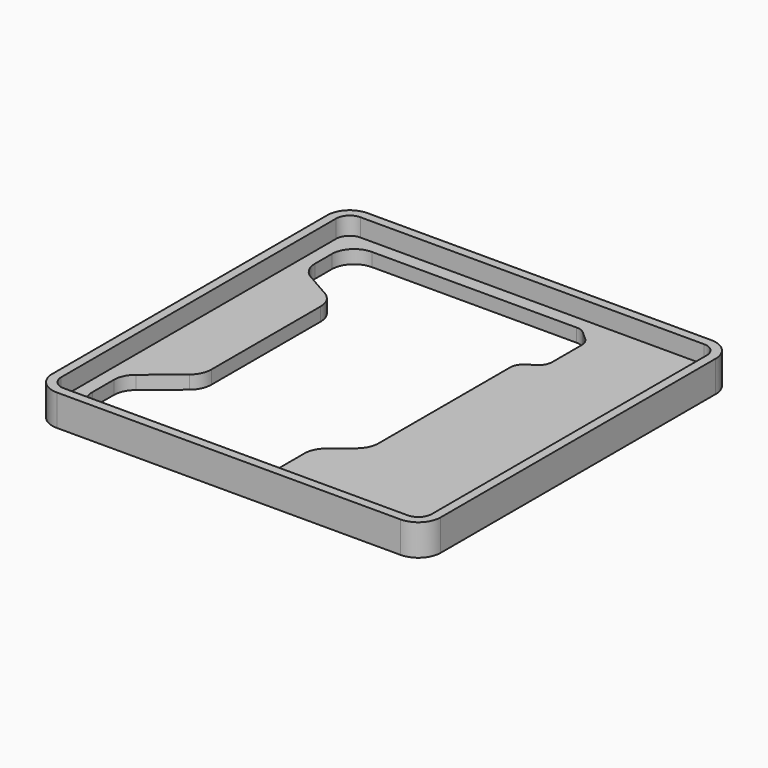
from build123d import *

# Parameters (mm, degrees)
F1_DEPTH = 3
F2_R     = 5
F3_R     = 5
F5_DEPTH = 4


with BuildPart() as f1:
    # F0 (on Top) → F1 (new body)
    with BuildSketch(Plane.XY):
        with BuildLine():
            Line((33.545249, 38.400311), (-43.454751, 38.400311))
            ThreePointArc((-43.454751, 38.400311), (-46.990285, 36.935845), (-48.454751, 33.400311))
            Line((-48.454751, 33.400311), (-48.454751, -43.599689))
            ThreePointArc((-48.454751, -43.599689), (-46.990285, -47.135222), (-43.454751, -48.599689))
            Line((-43.454751, -48.599689), (33.545249, -48.599689))
            ThreePointArc((33.545249, -48.599689), (37.080783, -47.135222), (38.545249, -43.599689))
            Line((38.545249, -43.599689), (38.545249, 33.400311))
            ThreePointArc((38.545249, 33.400311), (37.080783, 36.935845), (33.545249, 38.400311))
        make_face()
        with BuildLine():
            Line((-43.454751, 23.699071), (-43.454751, 33.400311))
            Line((-43.454751, 33.400311), (-2.236148, 33.400311))
            Line((-2.236148, 33.400311), (0, 33.400311))
            Line((0, 33.400311), (7.406416, 33.400311))
            ThreePointArc((7.406416, 33.400311), (8.481207, 33.201173), (9.41331, 32.630194))
            Line((9.41331, 32.630194), (11.244695, 30.981947))
            ThreePointArc((11.244695, 30.981947), (11.978301, 29.972581), (12.237801, 28.752065))
            Line((12.237801, 28.752065), (12.237801, 20.519217))
            ThreePointArc((12.237801, 20.519217), (11.877237, 19.093252), (10.882217, 18.010054))
            Line((10.882217, 18.010054), (9.100236, 16.842208))
            ThreePointArc((9.100236, 16.842208), (8.105216, 15.759011), (7.744652, 14.333046))
            Line((7.744652, 14.333046), (7.744652, -22.499491))
            ThreePointArc((7.744652, -22.499491), (7.265583, -24.635184), (5.920179, -26.361618))
            Line((5.920179, -26.361618), (1.824473, -29.729199))
            ThreePointArc((1.824473, -29.729199), (0.479069, -31.455634), (0, -33.591326))
            Line((0, -33.591326), (0, -40.599689))
            ThreePointArc((0, -40.599689), (-0.87868, -42.721009), (-3, -43.599689))
            Line((-3, -43.599689), (-43.454751, -43.599689))
            Line((-43.454751, -43.599689), (-43.454751, -32.622973))
            ThreePointArc((-43.454751, -32.622973), (-42.975682, -30.487281), (-41.630278, -28.760846))
            Line((-41.630278, -28.760846), (-34.385276, -22.803844))
            ThreePointArc((-34.385276, -22.803844), (-33.039872, -21.077409), (-32.560803, -18.941716))
            Line((-32.560803, -18.941716), (-32.560803, 11.657347))
            ThreePointArc((-32.560803, 11.657347), (-33.234097, 14.163262), (-35.072648, 15.994291))
            Line((-35.072648, 15.994291), (-40.942907, 19.362127))
            ThreePointArc((-40.942907, 19.362127), (-42.781458, 21.193155), (-43.454751, 23.699071))
        make_face(mode=Mode.SUBTRACT)
    extrude(amount=F1_DEPTH)

    # F2
    f2_edges = [f1.edges().sort_by_distance(p)[0] for p in [
        (-43.454751, 33.400311, 1.5),
    ]]
    fillet(f2_edges, radius=F2_R)

    # F3
    f3_edges = [f1.edges().sort_by_distance(p)[0] for p in [
        (-43.454751, -43.599689, 1.5),
    ]]
    fillet(f3_edges, radius=F3_R)

    # F4 (on face) → F5 (join)
    with BuildSketch(Plane.XY.offset(3)):
        with BuildLine():
            Line((33.545249, 38.400311), (-43.454751, 38.400311))
            ThreePointArc((-43.454751, 38.400311), (-46.990285, 36.935845), (-48.454751, 33.400311))
            Line((-48.454751, 33.400311), (-48.454751, -43.599689))
            ThreePointArc((-48.454751, -43.599689), (-46.990285, -47.135222), (-43.454751, -48.599689))
            Line((-43.454751, -48.599689), (33.545249, -48.599689))
            ThreePointArc((33.545249, -48.599689), (37.080783, -47.135222), (38.545249, -43.599689))
            Line((38.545249, -43.599689), (38.545249, 33.400311))
            ThreePointArc((38.545249, 33.400311), (37.080783, 36.935845), (33.545249, 38.400311))
        make_face()
        with BuildLine():
            ThreePointArc((-46.454751, 33.400311), (-45.576071, 35.521631), (-43.454751, 36.400311))
            Line((-43.454751, 36.400311), (33.545249, 36.400311))
            ThreePointArc((33.545249, 36.400311), (35.666568, 35.521631), (36.545248, 33.400311))
            Line((36.545248, 33.400311), (36.545248, -43.599689))
            ThreePointArc((36.545248, -43.599689), (35.666568, -45.721008), (33.545249, -46.599688))
            Line((33.545249, -46.599688), (-43.454751, -46.599688))
            ThreePointArc((-43.454751, -46.599688), (-45.576071, -45.721008), (-46.454751, -43.599689))
            Line((-46.454751, -43.599689), (-46.454751, 33.400311))
        make_face(mode=Mode.SUBTRACT)
    extrude(amount=F5_DEPTH)


solid = f1.part
